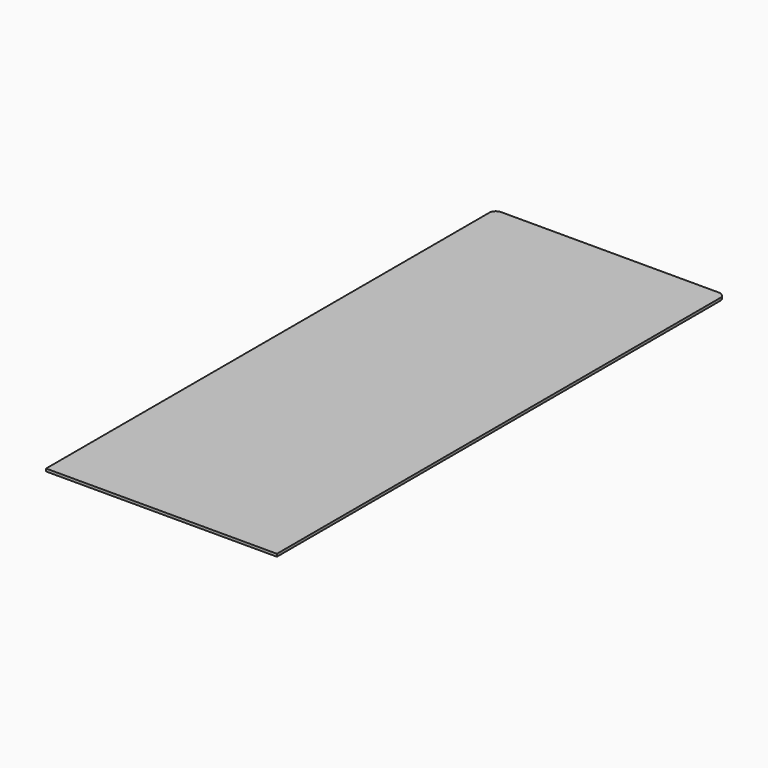
from build123d import *

# Parameters (mm, degrees)
F0_W     = 175
F0_H     = 405
F0_H_2   = 20
F1_DEPTH = 2
F2_R     = 5


with BuildPart() as f1:
    # F0 (on Top) → F1 (new body)
    with BuildSketch(Plane.XY):
        Rectangle(F0_W, F0_H)
        with Locations((0, 212.5)):
            Rectangle(F0_W, F0_H_2)
    extrude(amount=F1_DEPTH)

    # F2
    f2_edges = [f1.edges().sort_by_distance(p)[0] for p in [
        (87.5, 222.5, 1),
        (-87.5, 222.5, 1),
    ]]
    fillet(f2_edges, radius=F2_R)


solid = f1.part
